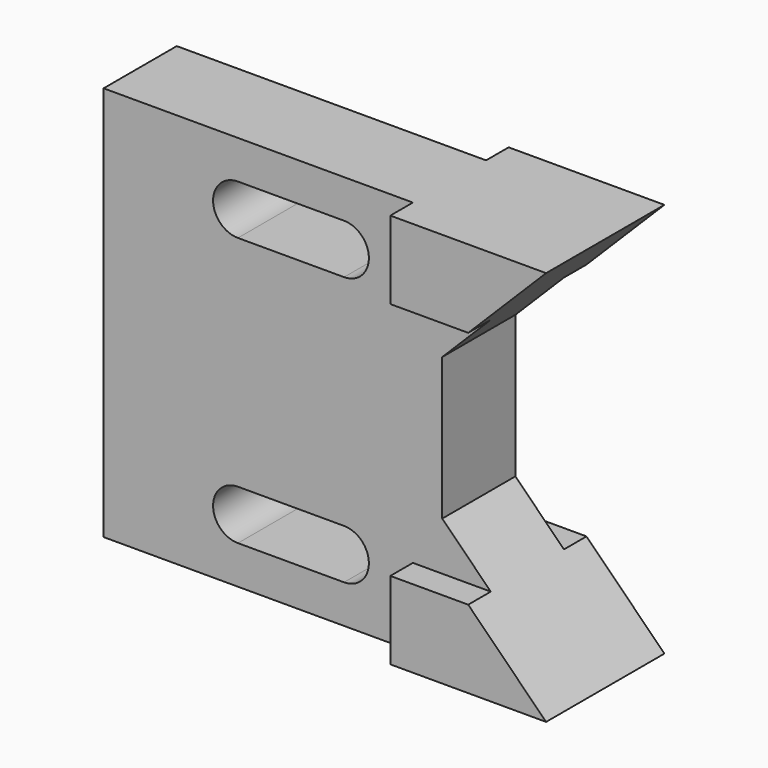
from build123d import *

# Parameters (mm, degrees)
F0_W     = 76.2
F0_H     = 16.002
F1_DEPTH = 20.574
F3_DEPTH = 20.574
F4_DEPTH = 6.35
F6_DEPTH = 33.274
F8_DEPTH = 33.274


with BuildPart() as f1:
    # F0 (on Front) → F1 (new body)
    with BuildSketch(Plane.XZ):
        Polygon((0, 28.448), (0, 0), (104.648, 0), (76.2, 28.448), align=None)
        with BuildLine():
            ThreePointArc((30.226, 8.636), (24.638, 14.224), (30.226, 19.812))
            Line((30.226, 19.812), (54.102, 19.812))
            ThreePointArc((54.102, 19.812), (59.69, 14.224), (54.102, 8.636))
            Line((54.102, 8.636), (30.226, 8.636))
        make_face(mode=Mode.SUBTRACT)
        with Locations((38.1, 36.449)):
            Rectangle(F0_W, F0_H)
        with Locations((38.1, 52.451)):
            Rectangle(F0_W, F0_H)
        Polygon((0, 88.9), (0, 60.452), (76.2, 60.452), (104.648, 88.9), align=None)
        with BuildLine():
            Line((54.102, 69.088), (30.226, 69.088))
            ThreePointArc((30.226, 69.088), (24.638, 74.676), (30.226, 80.264))
            Line((30.226, 80.264), (54.102, 80.264))
            ThreePointArc((54.102, 80.264), (59.69, 74.676), (54.102, 69.088))
        make_face(mode=Mode.SUBTRACT)
    extrude(amount=F1_DEPTH)

    # F0 (on Front) → F3 (join)
    with BuildSketch(Plane.XZ):
        Polygon((0, 28.448), (0, 0), (104.648, 0), (76.2, 28.448), align=None)
        with BuildLine():
            ThreePointArc((30.226, 8.636), (24.638, 14.224), (30.226, 19.812))
            Line((30.226, 19.812), (54.102, 19.812))
            ThreePointArc((54.102, 19.812), (59.69, 14.224), (54.102, 8.636))
            Line((54.102, 8.636), (30.226, 8.636))
        make_face(mode=Mode.SUBTRACT)
        with Locations((38.1, 36.449)):
            Rectangle(F0_W, F0_H)
        with Locations((38.1, 52.451)):
            Rectangle(F0_W, F0_H)
        Polygon((0, 88.9), (0, 60.452), (76.2, 60.452), (104.648, 88.9), align=None)
        with BuildLine():
            Line((54.102, 69.088), (30.226, 69.088))
            ThreePointArc((30.226, 69.088), (24.638, 74.676), (30.226, 80.264))
            Line((30.226, 80.264), (54.102, 80.264))
            ThreePointArc((54.102, 80.264), (59.69, 74.676), (54.102, 69.088))
        make_face(mode=Mode.SUBTRACT)
    extrude(amount=F3_DEPTH)

    # F2 (on face) → F4 (join, symmetric)
    with BuildSketch(Plane.XZ.offset(20.574)):
        Polygon((69.596, 17.526), (69.596, 0), (104.648, 0), (87.122, 17.526), align=None)
        Polygon((69.596, 88.9), (69.596, 71.374), (87.122, 71.374), (104.648, 88.9), align=None)
    extrude(amount=F4_DEPTH, both=True)

    # F5 (on face) → F6 (join)
    with BuildSketch(Plane.XZ.offset(26.924)):
        Polygon((87.122, 17.526), (69.596, 17.526), (69.596, 0), (104.648, 0), align=None)
    extrude(amount=-F6_DEPTH)

    # F7 (on face) → F8 (join)
    with BuildSketch(Plane.XZ.offset(26.924)):
        Polygon((104.648, 88.9), (69.596, 88.9), (69.596, 71.374), (87.122, 71.374), align=None)
    extrude(amount=-F8_DEPTH)


solid = f1.part
